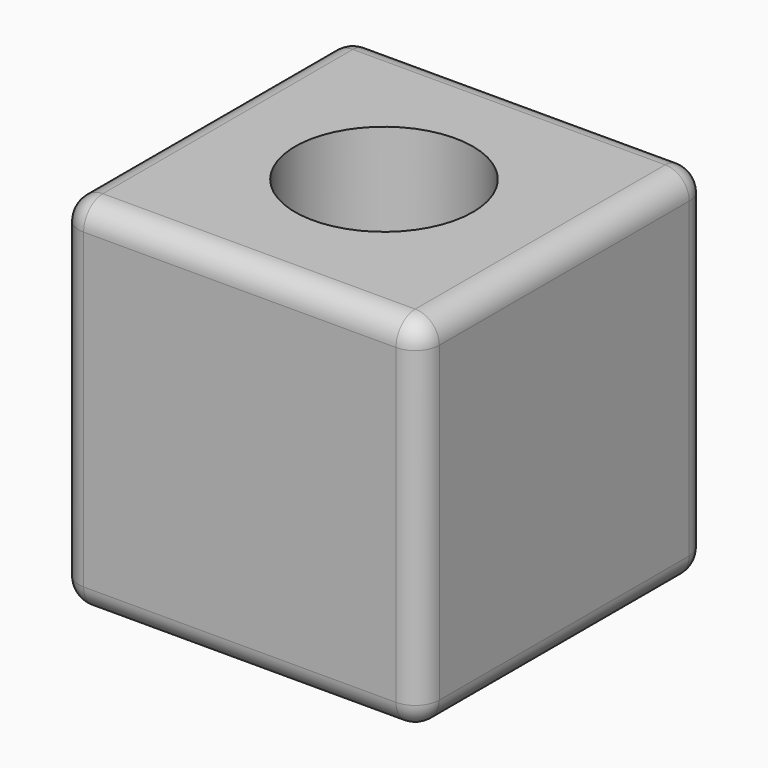
from build123d import *

# Parameters (mm, degrees)
F0_W     = 30
F0_H     = 30
F0_R     = 7.4
F1_DEPTH = 30
F2_R     = 2


with BuildPart() as f1:
    # F0 (on Top) → F1 (new body)
    with BuildSketch(Plane.XY):
        with Locations((1.971214, -19.989052)):
            Rectangle(F0_W, F0_H)
        with Locations((1.971214, -19.989052)):
            Circle(F0_R, mode=Mode.SUBTRACT)
    extrude(amount=F1_DEPTH)

    # F2
    f2_edges = [f1.edges().sort_by_distance(p)[0] for p in [
        (1.971214, -34.989052, 30),
        (16.971214, -19.989052, 30),
        (1.971214, -4.989052, 30),
        (-13.028786, -19.989052, 30),
        (1.971214, -34.989052, 0),
        (-13.028786, -19.989052, 0),
        (1.971214, -4.989052, 0),
        (16.971214, -19.989052, 0),
        (-13.028786, -4.989052, 15),
        (16.971214, -4.989052, 15),
        (16.971214, -34.989052, 15),
        (-13.028786, -34.989052, 15),
    ]]
    fillet(f2_edges, radius=F2_R)


solid = f1.part
